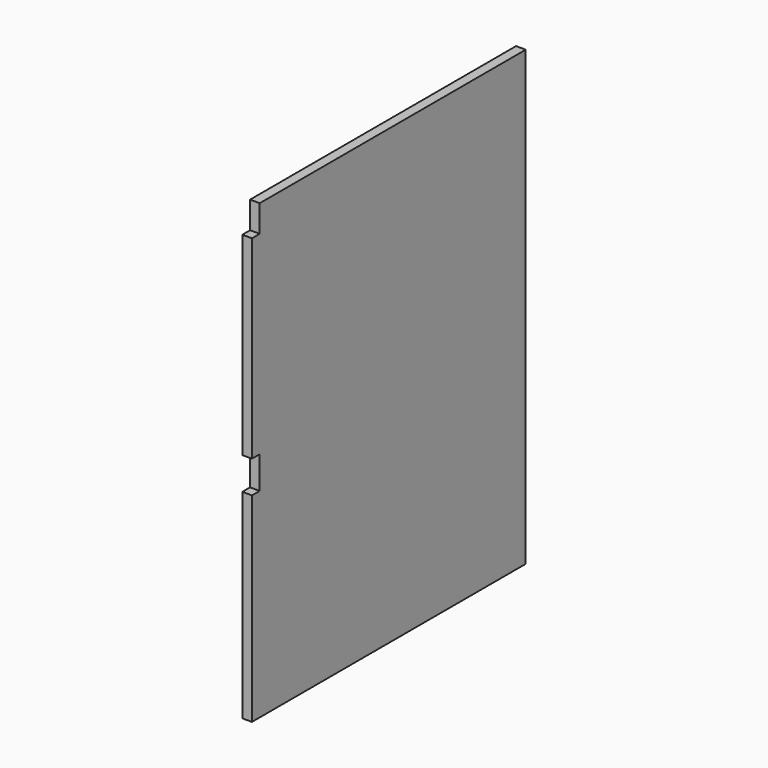
from build123d import *

# Parameters (mm, degrees)
F0_W     = 635
F0_H     = 840
F1_DEPTH = 18
F2_W     = 18
F2_H     = 50
F2_H_2   = 60
F3_DEPTH = 18


with BuildPart() as f1:
    # F0 (on Right) → F1 (new body)
    with BuildSketch(Plane.YZ):
        Rectangle(F0_W, F0_H)
    extrude(amount=F1_DEPTH)

    # F2 (on face) → F3 (cut)
    with BuildSketch(Plane.YZ.offset(18)):
        with Locations((-308.5, 395)):
            Rectangle(F2_W, F2_H)
        with Locations((-308.5, -20)):
            Rectangle(F2_W, F2_H_2)
    extrude(amount=-F3_DEPTH, mode=Mode.SUBTRACT)


solid = f1.part
